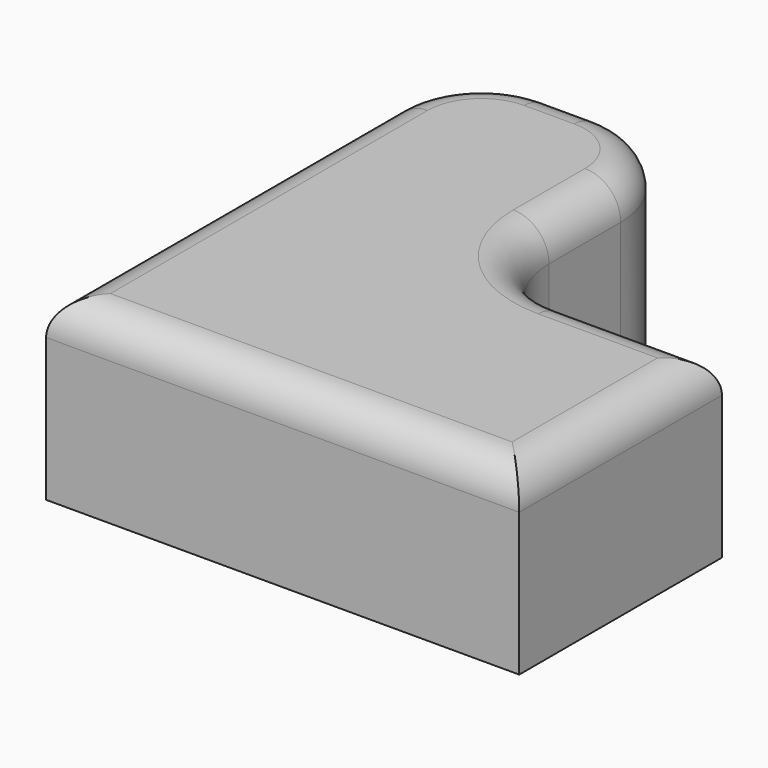
from build123d import *

# Parameters (mm, degrees)
F1_DEPTH = 12.7
F2_R     = 2.54


with BuildPart() as f1:
    # F0 (on Top) → F1 (new body)
    with BuildSketch(Plane.XY):
        with BuildLine():
            Line((0, 30.729745), (0, 0))
            Line((0, 0), (33.628508, 0))
            Line((33.628508, 0), (33.628508, 18.006372))
            Line((33.628508, 18.006372), (22.609146, 18.006372))
            ThreePointArc((22.609146, 18.006372), (18.119018, 19.866244), (16.259146, 24.356372))
            Line((16.259146, 24.356372), (16.259146, 30.729745))
            ThreePointArc((16.259146, 30.729745), (14.399274, 35.219873), (9.909146, 37.079745))
            Line((9.909146, 37.079745), (6.35, 37.079745))
            ThreePointArc((6.35, 37.079745), (1.859872, 35.219873), (0, 30.729745))
        make_face()
    extrude(amount=F1_DEPTH)

    # F2
    f2_edges = [f1.edges().sort_by_distance(p)[0] for p in [
        (1.859872, 35.219873, 12.7),
        (8.129573, 37.079745, 12.7),
        (14.399274, 35.219873, 12.7),
        (16.259146, 27.543059, 12.7),
        (18.119018, 19.866244, 12.7),
        (28.118827, 18.006372, 12.7),
        (33.628508, 9.003186, 12.7),
        (16.814254, 0, 12.7),
        (0, 15.364872, 12.7),
    ]]
    fillet(f2_edges, radius=F2_R)


solid = f1.part
